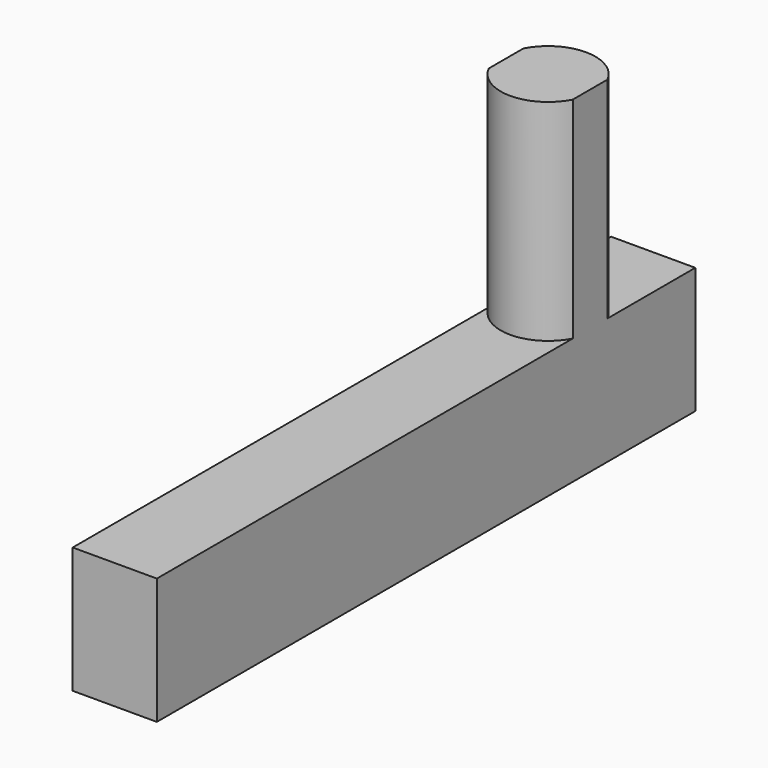
from build123d import *

# Parameters (mm, degrees)
F1_DEPTH = 10
F2_DEPTH = 6
F3_W     = 4
F3_H     = 32
F4_DEPTH = 16.001


with BuildPart() as f1:
    # F0 (on Top) → F1 (new body)
    with BuildSketch(Plane.XY):
        with BuildLine():
            ThreePointArc((-2.25, -6.25), (0, -8.5), (2.25, -6.25))
            ThreePointArc((2.25, -6.25), (0, -4), (-2.25, -6.25))
        make_face()
    extrude(amount=F1_DEPTH)

    # F0 (on Top) → F2 (join)
    with BuildSketch(Plane.XY):
        with BuildLine():
            ThreePointArc((-2.25, -6.25), (0, -8.5), (2.25, -6.25))
            ThreePointArc((2.25, -6.25), (0, -4), (-2.25, -6.25))
        make_face()
        with BuildLine():
            ThreePointArc((-2.25, -6.25), (0, -4), (2.25, -6.25))
            Line((2.25, -6.25), (2.25, 0))
            Line((2.25, 0), (-2.25, 0))
            Line((-2.25, 0), (-2.25, -6.25))
        make_face()
        with BuildLine():
            Line((2.25, -32), (2.25, -6.25))
            ThreePointArc((2.25, -6.25), (0, -8.5), (-2.25, -6.25))
            Line((-2.25, -6.25), (-2.25, -32))
            Line((-2.25, -32), (2.25, -32))
        make_face()
    extrude(amount=-F2_DEPTH)

    # F3 (on face) → F4 (intersect, through all)
    with BuildSketch(Plane(origin=(0, 0, -6), x_dir=(1, 0, 0), z_dir=(0, 0, -1))):
        with Locations((0, 16)):
            Rectangle(F3_W, F3_H)
    extrude(amount=-F4_DEPTH, mode=Mode.INTERSECT)


solid = f1.part
